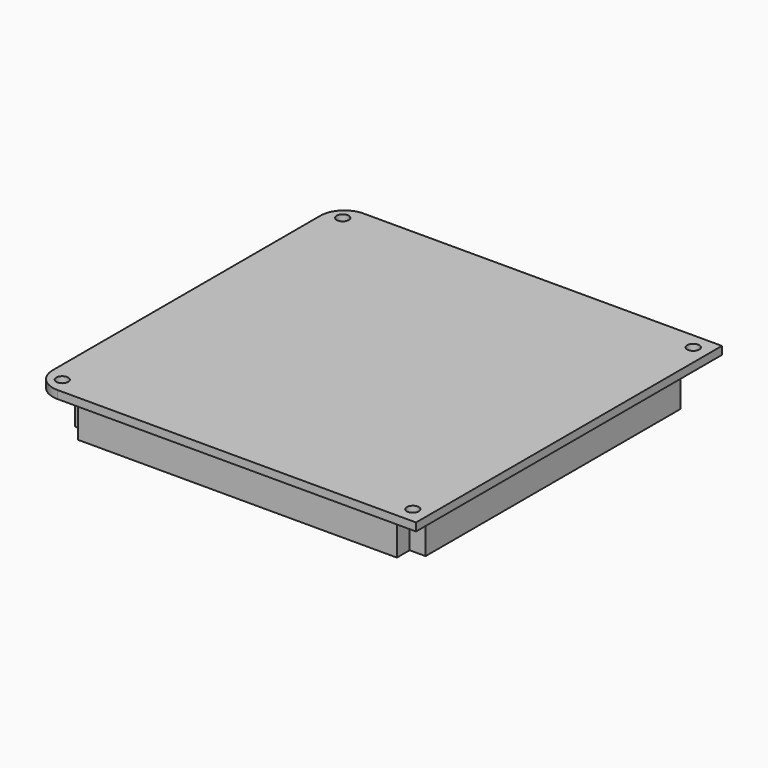
from build123d import *

# Parameters (mm, degrees)
F0_W     = 48
F0_H     = 48
F1_DEPTH = 1
F2_W     = 2
F2_H     = 2
F3_DEPTH = 5
F5_D     = 1.5
F6_R     = 3


with BuildPart() as f1:
    # F0 (on Top) → F1 (new body)
    with BuildSketch(Plane.XY):
        with Locations((-0.8524587825, -1.0040983325)):
            Rectangle(F0_W, F0_H)
        Polygon((19.1475412175, 18.9959016675), (21.1475412175, 18.9959016675), (21.1475412175, -21.0040983325), (19.1475412175, -21.0040983325), (19.1475412175, -23.0040983325), (-20.8524587825, -23.0040983325), (-20.8524587825, -21.0040983325), (-22.8524587825, -21.0040983325), (-22.8524587825, 18.9959016675), (-20.8524587825, 18.9959016675), (-20.8524587825, 20.9959016675), (19.1475412175, 20.9959016675), align=None, mode=Mode.SUBTRACT)
        Polygon((21.1475412175, -21.0040983325), (21.1475412175, 18.9959016675), (19.1475412175, 18.9959016675), (19.1475412175, 20.9959016675), (-20.8524587825, 20.9959016675), (-20.8524587825, 18.9959016675), (-22.8524587825, 18.9959016675), (-22.8524587825, -21.0040983325), (-20.8524587825, -21.0040983325), (-20.8524587825, -23.0040983325), (19.1475412175, -23.0040983325), (19.1475412175, -21.0040983325), align=None)
    extrude(amount=F1_DEPTH)

    # F2 (on Top) → F3 (join)
    with BuildSketch(Plane.XY):
        Polygon((-20.8524587825, -21.0040983325), (-20.8524587825, -23.0040983325), (19.1475412175, -23.0040983325), (19.1475412175, -21.0040983325), (17.1475412175, -21.0040983325), (17.1475412175, -19.0040983325), (-18.8524587825, -19.0040983325), (-18.8524587825, -21.0040983325), align=None)
        Polygon((-22.8524587825, -21.0040983325), (-20.8524587825, -21.0040983325), (-20.8524587825, -19.0040983325), (-18.8524587825, -19.0040983325), (-18.8524587825, 16.9959016675), (-20.8524587825, 16.9959016675), (-20.8524587825, 18.9959016675), (-22.8524587825, 18.9959016675), align=None)
        with Locations((-19.8524587825, -20.0040983325)):
            Rectangle(F2_W, F2_H)
        with Locations((18.1475412175, -20.0040983325)):
            Rectangle(F2_W, F2_H)
        Polygon((19.1475412175, -19.0040983325), (19.1475412175, -21.0040983325), (21.1475412175, -21.0040983325), (21.1475412175, 18.9959016675), (19.1475412175, 18.9959016675), (19.1475412175, 16.9959016675), (17.1475412175, 16.9959016675), (17.1475412175, -19.0040983325), align=None)
        with Locations((-19.8524587825, 17.9959016675)):
            Rectangle(F2_W, F2_H)
        Polygon((-18.8524587825, 18.9959016675), (-18.8524587825, 16.9959016675), (17.1475412175, 16.9959016675), (17.1475412175, 18.9959016675), (19.1475412175, 18.9959016675), (19.1475412175, 20.9959016675), (-20.8524587825, 20.9959016675), (-20.8524587825, 18.9959016675), align=None)
        with Locations((18.1475412175, 17.9959016675)):
            Rectangle(F2_W, F2_H)
    extrude(amount=-F3_DEPTH)

    # F5 (through all)
    with Locations(Plane.XY.offset(1)):
        with Locations((-22.8524587825, 20.9959016675), (-22.8524587825, -23.0040983325), (21.1475412175, -23.0040983325), (21.1475412175, 20.9959016675)):
            Hole(F5_D / 2)

    # F6
    f6_edges = [f1.edges().sort_by_distance(p)[0] for p in [
        (-24.852459, -25.004098, 0.5),
        (-24.852459, 22.995902, 0.5),
    ]]
    fillet(f6_edges, radius=F6_R)


solid = f1.part
